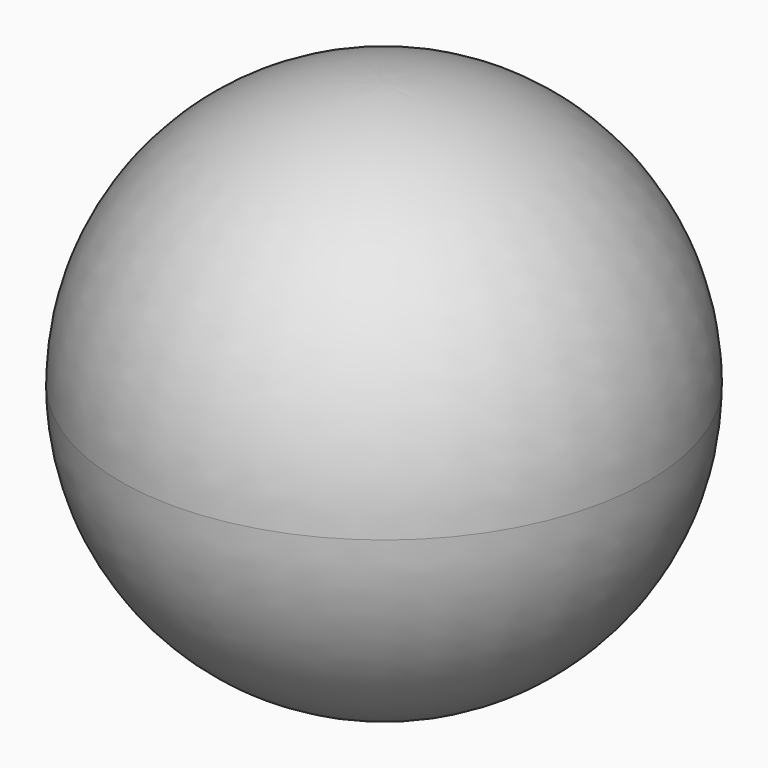
from build123d import *


with BuildPart() as f1:
    # F0 (on Front) → F1 (revolve)
    with BuildSketch(Plane.XZ):
        with BuildLine():
            ThreePointArc((0, -55.173118), (39.013286, -39.013286), (55.173118, 0))
            ThreePointArc((55.173118, 0), (39.013286, 39.013286), (0, 55.173118))
            Line((0, 55.173118), (0, 4.387792))
            add(Edge.make_bspline(
                [(54.959431, 0), (54.959431, 4.387792), (0, 4.387792)],
                knots=[0, 0, 0, 1.570796, 1.570796, 1.570796], degree=2, weights=[1, 0.707107, 1]))
            add(Edge.make_bspline(
                [(0, -4.387792), (54.959431, -4.387792), (54.959431, 0)],
                knots=[4.712389, 4.712389, 4.712389, 6.283185, 6.283185, 6.283185], degree=2, weights=[1, 0.707107, 1]))
            Line((0, -4.387792), (0, -55.173118))
        make_face()
    revolve(axis=Axis((0, 0, 0), (0, 0, -1)))


solid = f1.part
